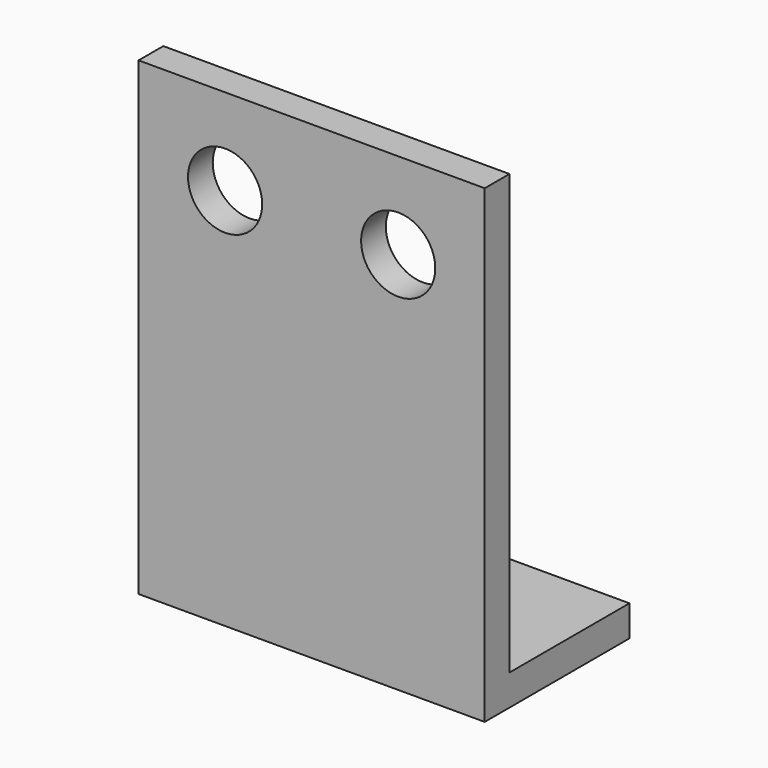
from build123d import *

# Parameters (mm, degrees)
F0_W     = 14
F0_H     = 19
F1_DEPTH = 1.25
F2_W     = 14
F2_H     = 1.25
F3_DEPTH = 17.75
F4_R     = 1.5
F5_DEPTH = 25
F6_R     = 1.5
F7_DEPTH = 25
F8_W     = 14
F8_H     = 11.685
F9_DEPTH = 25


with BuildPart() as f1:
    # F0 (on Front) → F1 (new body)
    with BuildSketch(Plane.XZ):
        Rectangle(F0_W, F0_H)
    extrude(amount=F1_DEPTH)

    # F2 (on face) → F3 (join)
    with BuildSketch(Plane(origin=(0, 0, 0), x_dir=(-1, 0, 0), z_dir=(0, 1, 0))):
        with Locations((0, -8.875)):
            Rectangle(F2_W, F2_H)
    extrude(amount=F3_DEPTH)

    # F4 (on face) → F5 (cut)
    with BuildSketch(Plane(origin=(0, 0, 0), x_dir=(-1, 0, 0), z_dir=(0, 1, 0))):
        with Locations((-3.5, 6)):
            Circle(F4_R)
        with Locations((3.5, 6)):
            Circle(F4_R)
    extrude(amount=-F5_DEPTH, mode=Mode.SUBTRACT)

    # F6 (on face) → F7 (cut)
    with BuildSketch(Plane.XY.offset(-8.25)):
        with Locations((0, 2.565)):
            Circle(F6_R)
    extrude(amount=-F7_DEPTH, mode=Mode.SUBTRACT)

    # F8 (on face) → F9 (cut)
    with BuildSketch(Plane.XY.offset(-8.25)):
        with Locations((0, 11.9075)):
            Rectangle(F8_W, F8_H)
    extrude(amount=-F9_DEPTH, mode=Mode.SUBTRACT)


solid = f1.part
